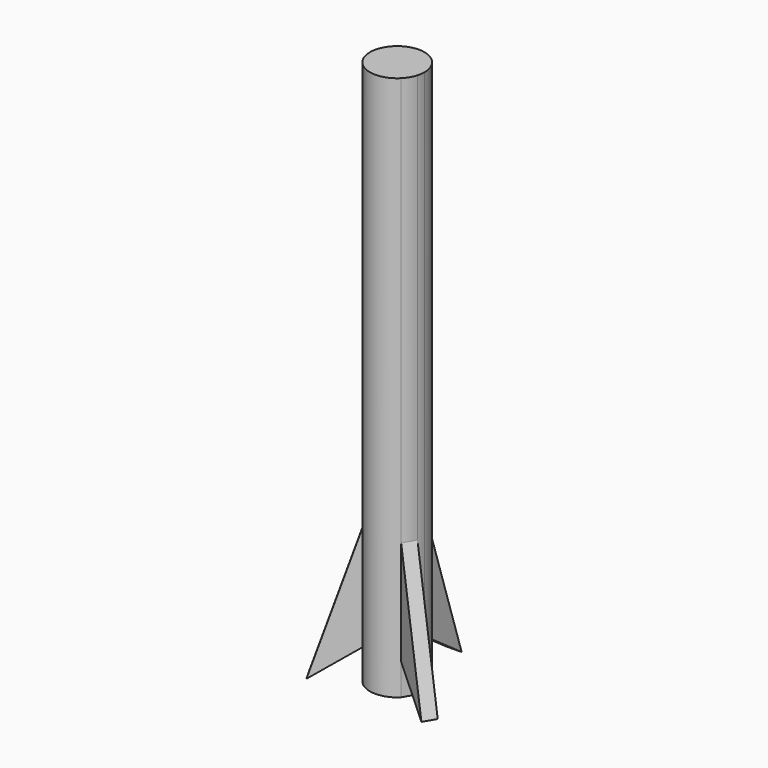
from build123d import *

# Parameters (mm, degrees)
F1_DEPTH   = 25.4
F2_DEPTH   = 6.35
F4_DEPTH   = 25.4
F5_DEPTH   = 25.4
F2_FACE2_W = 0.635
F2_FACE2_H = 6.35
F2_FACE3_W = 10.16
F2_FACE3_H = 6.35
F7_DEPTH   = 25.4
F9_DEPTH   = 25.4


with BuildPart() as f1:
    # F0 (on Top) → F1 (new body)
    with BuildSketch(Plane.XY):
        with BuildLine():
            ThreePointArc((1.2208780752, -0.3497952621), (1.2576595635, -0.1766137657), (1.27, 0))
            ThreePointArc((1.27, 0), (1.0317462976, 0.7405400579), (0.4063786184, 1.2032275007))
            ThreePointArc((0.4063786184, 1.2032275007), (0.0082488661, 1.2699732108), (-0.3907143254, 1.2084048642))
            ThreePointArc((-0.3907143254, 1.2084048642), (-1.1197739724, 0.5991713033), (-1.2221285, -0.3454011139))
            ThreePointArc((-1.2221285, -0.3454011139), (-1.0969705534, -0.6399653154), (-0.9021458423, -0.8938863906))
            ThreePointArc((-0.9021458423, -0.8938863906), (-0.0022842997, -1.2699979457), (0.8989244127, -0.897125911))
            ThreePointArc((0.8989244127, -0.897125911), (1.0946612978, -0.643907325), (1.2208780752, -0.3497952621))
        make_face()
    extrude(amount=F1_DEPTH)

    # F0 (on Top) → F2 (join)
    with BuildSketch(Plane.XY):
        with BuildLine():
            ThreePointArc((-0.9021458423, -0.8938863906), (-1.0969705534, -0.6399653154), (-1.2221285, -0.3454011139))
            Line((-1.2221285, -0.3454011139), (-10.0618945001, -5.3538077531))
            Line((-10.0618945001, -5.3538077531), (-9.7419118424, -5.9022930298))
            Line((-9.7419118424, -5.9022930298), (-0.9021458423, -0.8938863906))
        make_face()
        with BuildLine():
            ThreePointArc((-0.3907143254, 1.2084048642), (0.0082488661, 1.2699732108), (0.4063786184, 1.2032275007))
            Line((0.4063786184, 1.2032275007), (0.32674037, 11.3629153773))
            Line((0.32674037, 11.3629153773), (-0.3082387074, 11.3680701034))
            Line((-0.3082387074, 11.3680701034), (-0.3907143254, 1.2084048642))
        make_face()
        with BuildLine():
            Line((9.9781684573, -5.5010538621), (1.2208780752, -0.3497952621))
            ThreePointArc((1.2208780752, -0.3497952621), (1.0946612978, -0.643907325), (0.8989244127, -0.897125911))
            Line((0.8989244127, -0.897125911), (9.6562147948, -6.0483845109))
            Line((9.6562147948, -6.0483845109), (9.9781684573, -5.5010538621))
        make_face()
    extrude(amount=F2_DEPTH)

    # F3 (on face) → F4 (cut)
    with BuildSketch(Plane(origin=(0.1609768312, 0.2736653244, 0), x_dir=(-0.8619380297, 0.5070136417, 0), z_dir=(0.5070136417, 0.8619380297, 0))):
        Polygon((-11.3896722124, 0), (-3.303936429, 0), (-1.2296722124, 6.35), (-11.3896722124, 6.35), align=None)
    extrude(amount=-F4_DEPTH, mode=Mode.SUBTRACT)

    # F3 (on face) → F5 (cut)
    with BuildSketch(Plane(origin=(0.1609768312, 0.2736653244, 0), x_dir=(-0.8619380297, 0.5070136417, 0), z_dir=(0.5070136417, 0.8619380297, 0))):
        Polygon((-1.2296722124, 0), (-1.2296722124, 1.4659563295), (-3.303936429, 0), align=None)
    extrude(amount=-F5_DEPTH, mode=Mode.SUBTRACT)

    # F6 (on face) + F2_face2 (on face) + F2_face3 (on face) → F7 (cut)
    with BuildSketch(Plane(origin=(0.4157847513, 0.0032591916, 0), x_dir=(-0.0078384103, 0.9999692792, 0), z_dir=(0.9999692792, 0.0078384103, 0))):
        Polygon((1.2000051743, 6.35), (3.2617810744, 0), (11.3600051743, 0), (11.3600051743, 6.35), align=None)
        Polygon((3.2617810744, 0), (1.2000051743, 1.46235188), (1.2000051743, 0), align=None)
    with BuildSketch(Plane(origin=(0.0092508313, 11.3654927404, 3.175), x_dir=(-0.9999670511, 0.0081176789, 0), z_dir=(0.0081176789, 0.9999670511, 0))):
        Rectangle(F2_FACE2_W, F2_FACE2_H)
    with BuildSketch(Plane(origin=(-0.3494765164, 6.2882374838, 3.175), x_dir=(-0.0081176789, -0.9999670511, 0), z_dir=(-0.9999670511, 0.0081176789, 0))):
        Rectangle(F2_FACE3_W, F2_FACE3_H)
    extrude(amount=-F7_DEPTH, dir=(0.9999692792, 0.0078384103, 0), mode=Mode.SUBTRACT)

    # F8 (on face) → F9 (cut)
    with BuildSketch(Plane(origin=(-0.1488394932, 0.2626995742, 0), x_dir=(-0.8700557087, -0.4929534094, 0), z_dir=(-0.4929534094, 0.8700557087, 0))):
        Polygon((1.2335865348, 6.35), (3.295362435, 0), (11.3935865348, 0), (11.3935865348, 6.35), align=None)
        Polygon((3.295362435, 0), (1.2335865348, 1.46235188), (1.2335865348, 0), align=None)
    extrude(amount=-F9_DEPTH, mode=Mode.SUBTRACT)


solid = f1.part
